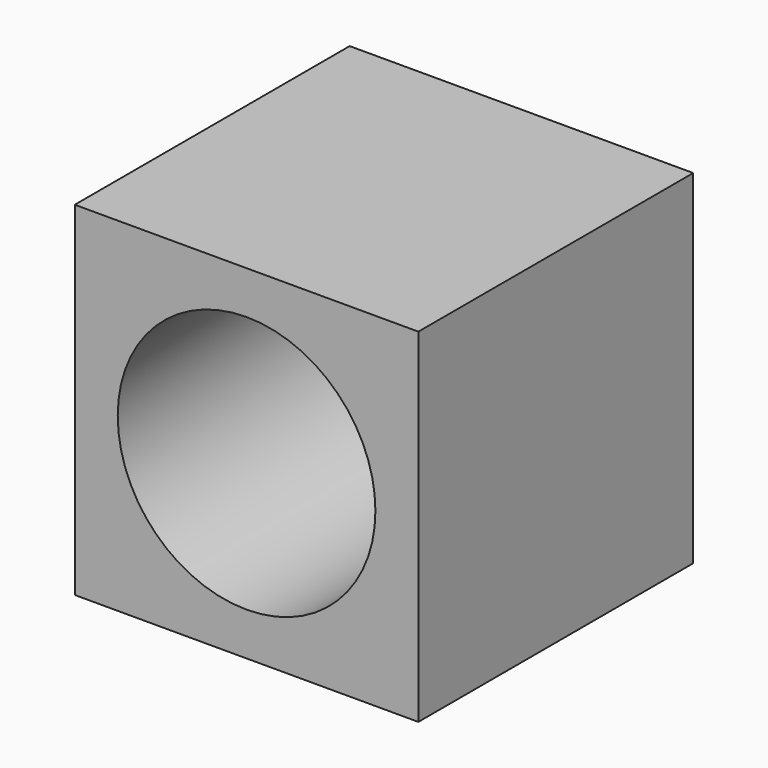
from build123d import *

# Parameters (mm, degrees)
F0_W     = 50.8
F0_H     = 50.8
F1_DEPTH = 50.8
F2_R     = 15.755005
F3_DEPTH = 50.8
F4_R     = 19.05
F5_DEPTH = 50.8


with BuildPart() as f1:
    # F0 (on Front) → F1 (new body)
    with BuildSketch(Plane.XZ):
        with Locations((25.4, 25.4)):
            Rectangle(F0_W, F0_H)
    extrude(amount=F1_DEPTH)

    # F2 (on face) → F3 (cut)
    with BuildSketch(Plane.XZ.offset(50.8)):
        with Locations((24.034012, 24.344128)):
            Circle(F2_R)
    extrude(amount=F3_DEPTH, mode=Mode.SUBTRACT)

    # F4 (on face) → F5 (cut)
    with BuildSketch(Plane.XZ.offset(50.8)):
        with Locations((25.4, 25.4)):
            Circle(F4_R)
    extrude(amount=-F5_DEPTH, mode=Mode.SUBTRACT)


solid = f1.part
